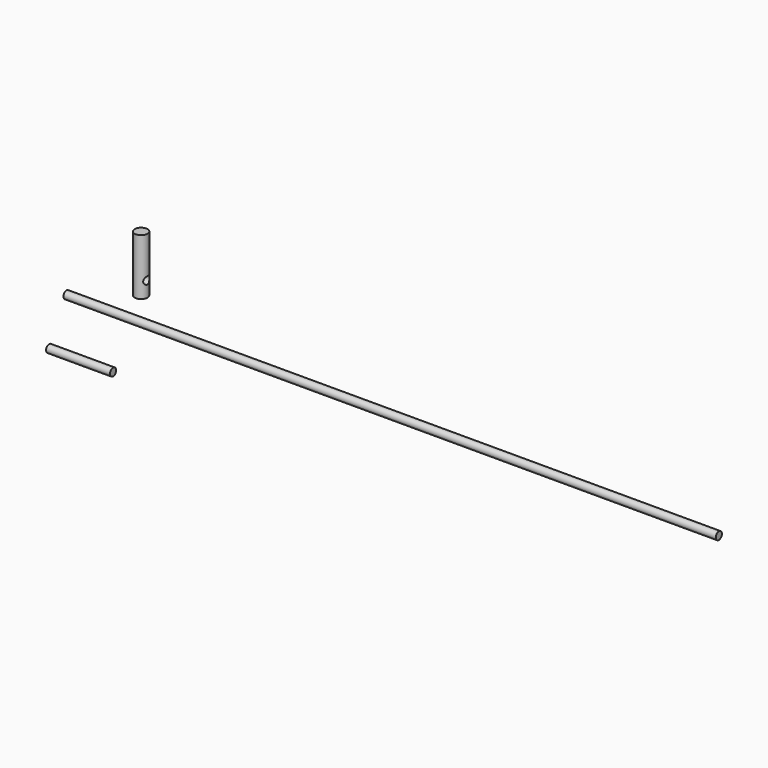
from build123d import *

# Parameters (mm, degrees)
F0_R     = 2.5
F1_DEPTH = 22
F2_R     = 1.5
F3_DEPTH = 25
F4_R     = 1.5
F5_DEPTH = 255
F6_R     = 1.5
F7_DEPTH = 25


with BuildPart() as f1:
    # F0 (on Top) → F1 (new body)
    with BuildSketch(Plane.XY):
        Circle(F0_R)
    extrude(amount=F1_DEPTH)

    # F2 (on Right) → F3 (cut)
    with BuildSketch(Plane.YZ):
        with Locations((0, 6)):
            Circle(F2_R)
    extrude(amount=F3_DEPTH, mode=Mode.SUBTRACT)


with BuildPart() as f5:
    # F4 (on Right) → F5 (new body)
    with BuildSketch(Plane.YZ):
        with Locations((-36.465298, 15.047641)):
            Circle(F4_R)
    extrude(amount=F5_DEPTH)


with BuildPart() as f7:
    # F6 (on Right) → F7 (new body)
    with BuildSketch(Plane.YZ):
        with Locations((-44.937495, 0)):
            Circle(F6_R)
    extrude(amount=F7_DEPTH)


solid = Compound([f1.part, f5.part, f7.part])
